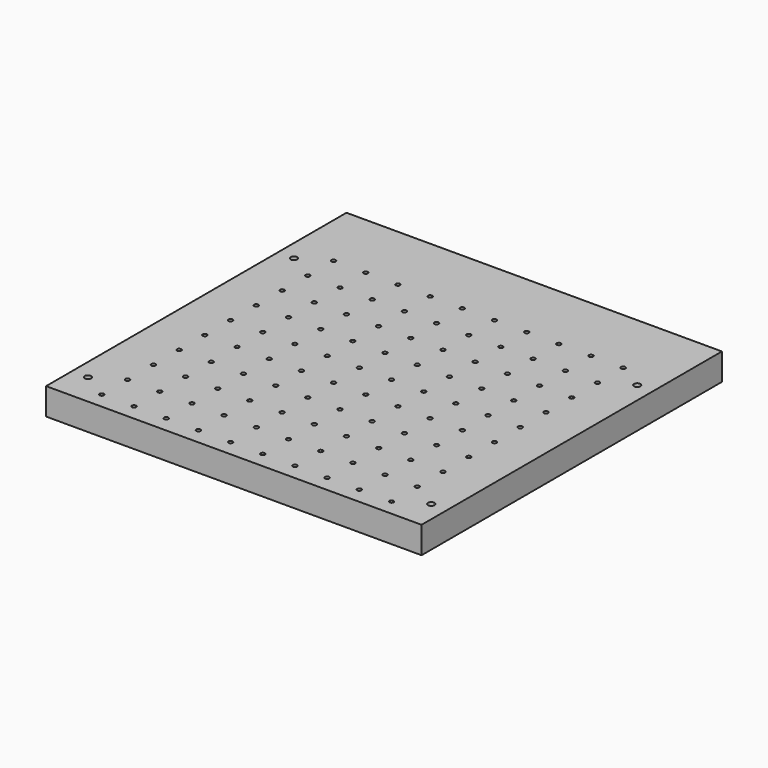
from build123d import *

# Parameters (mm, degrees)
F0_W     = 350
F0_H     = 300
F0_H_2   = 50
F1_DEPTH = 25
F2_R     = 2
F3_DEPTH = 20
F4_R     = 3
F5_DEPTH = 25.001


with BuildPart() as f1:
    # F0 (on Top) → F1 (new body)
    with BuildSketch(Plane.XY):
        with Locations((175, 150)):
            Rectangle(F0_W, F0_H)
        with Locations((175, 325)):
            Rectangle(F0_W, F0_H_2)
    extrude(amount=F1_DEPTH)

    # F2 (on face) → F3 (cut)
    with BuildSketch(Plane.XY.offset(25)):
        with Locations((40, 15)):
            Circle(F2_R)
        with Locations((40, 45)):
            Circle(F2_R)
        with Locations((40, 75)):
            Circle(F2_R)
        with Locations((40, 105)):
            Circle(F2_R)
        with Locations((40, 135)):
            Circle(F2_R)
        with Locations((40, 165)):
            Circle(F2_R)
        with Locations((40, 195)):
            Circle(F2_R)
        with Locations((40, 225)):
            Circle(F2_R)
        with Locations((40, 255)):
            Circle(F2_R)
        with Locations((40, 285)):
            Circle(F2_R)
        with Locations((70, 15)):
            Circle(F2_R)
        with Locations((70, 45)):
            Circle(F2_R)
        with Locations((70, 75)):
            Circle(F2_R)
        with Locations((70, 105)):
            Circle(F2_R)
        with Locations((70, 135)):
            Circle(F2_R)
        with Locations((70, 165)):
            Circle(F2_R)
        with Locations((70, 195)):
            Circle(F2_R)
        with Locations((70, 225)):
            Circle(F2_R)
        with Locations((70, 255)):
            Circle(F2_R)
        with Locations((70, 285)):
            Circle(F2_R)
        with Locations((100, 15)):
            Circle(F2_R)
        with Locations((100, 45)):
            Circle(F2_R)
        with Locations((100, 75)):
            Circle(F2_R)
        with Locations((100, 105)):
            Circle(F2_R)
        with Locations((100, 135)):
            Circle(F2_R)
        with Locations((100, 165)):
            Circle(F2_R)
        with Locations((100, 195)):
            Circle(F2_R)
        with Locations((100, 225)):
            Circle(F2_R)
        with Locations((100, 255)):
            Circle(F2_R)
        with Locations((100, 285)):
            Circle(F2_R)
        with Locations((130, 15)):
            Circle(F2_R)
        with Locations((130, 45)):
            Circle(F2_R)
        with Locations((130, 75)):
            Circle(F2_R)
        with Locations((130, 105)):
            Circle(F2_R)
        with Locations((130, 135)):
            Circle(F2_R)
        with Locations((130, 165)):
            Circle(F2_R)
        with Locations((130, 195)):
            Circle(F2_R)
        with Locations((130, 225)):
            Circle(F2_R)
        with Locations((130, 255)):
            Circle(F2_R)
        with Locations((130, 285)):
            Circle(F2_R)
        with Locations((160, 15)):
            Circle(F2_R)
        with Locations((160, 45)):
            Circle(F2_R)
        with Locations((160, 75)):
            Circle(F2_R)
        with Locations((160, 105)):
            Circle(F2_R)
        with Locations((160, 135)):
            Circle(F2_R)
        with Locations((160, 165)):
            Circle(F2_R)
        with Locations((160, 195)):
            Circle(F2_R)
        with Locations((160, 225)):
            Circle(F2_R)
        with Locations((160, 255)):
            Circle(F2_R)
        with Locations((160, 285)):
            Circle(F2_R)
        with Locations((190, 15)):
            Circle(F2_R)
        with Locations((190, 45)):
            Circle(F2_R)
        with Locations((190, 75)):
            Circle(F2_R)
        with Locations((190, 105)):
            Circle(F2_R)
        with Locations((190, 135)):
            Circle(F2_R)
        with Locations((190, 165)):
            Circle(F2_R)
        with Locations((190, 195)):
            Circle(F2_R)
        with Locations((190, 225)):
            Circle(F2_R)
        with Locations((190, 255)):
            Circle(F2_R)
        with Locations((190, 285)):
            Circle(F2_R)
        with Locations((220, 15)):
            Circle(F2_R)
        with Locations((220, 45)):
            Circle(F2_R)
        with Locations((220, 75)):
            Circle(F2_R)
        with Locations((220, 105)):
            Circle(F2_R)
        with Locations((220, 135)):
            Circle(F2_R)
        with Locations((220, 165)):
            Circle(F2_R)
        with Locations((220, 195)):
            Circle(F2_R)
        with Locations((220, 225)):
            Circle(F2_R)
        with Locations((220, 255)):
            Circle(F2_R)
        with Locations((220, 285)):
            Circle(F2_R)
        with Locations((250, 15)):
            Circle(F2_R)
        with Locations((250, 45)):
            Circle(F2_R)
        with Locations((250, 75)):
            Circle(F2_R)
        with Locations((250, 105)):
            Circle(F2_R)
        with Locations((250, 135)):
            Circle(F2_R)
        with Locations((250, 165)):
            Circle(F2_R)
        with Locations((250, 195)):
            Circle(F2_R)
        with Locations((250, 225)):
            Circle(F2_R)
        with Locations((250, 255)):
            Circle(F2_R)
        with Locations((250, 285)):
            Circle(F2_R)
        with Locations((280, 15)):
            Circle(F2_R)
        with Locations((280, 45)):
            Circle(F2_R)
        with Locations((280, 75)):
            Circle(F2_R)
        with Locations((280, 105)):
            Circle(F2_R)
        with Locations((280, 135)):
            Circle(F2_R)
        with Locations((280, 165)):
            Circle(F2_R)
        with Locations((280, 195)):
            Circle(F2_R)
        with Locations((280, 225)):
            Circle(F2_R)
        with Locations((280, 255)):
            Circle(F2_R)
        with Locations((280, 285)):
            Circle(F2_R)
        with Locations((310, 15)):
            Circle(F2_R)
        with Locations((310, 45)):
            Circle(F2_R)
        with Locations((310, 75)):
            Circle(F2_R)
        with Locations((310, 105)):
            Circle(F2_R)
        with Locations((310, 135)):
            Circle(F2_R)
        with Locations((310, 165)):
            Circle(F2_R)
        with Locations((310, 195)):
            Circle(F2_R)
        with Locations((310, 225)):
            Circle(F2_R)
        with Locations((310, 255)):
            Circle(F2_R)
        with Locations((310, 285)):
            Circle(F2_R)
    extrude(amount=-F3_DEPTH, mode=Mode.SUBTRACT)

    # F4 (on face) → F5 (cut, through all)
    with BuildSketch(Plane.XY.offset(25)):
        with Locations((15, 270)):
            Circle(F4_R)
        with Locations((335, 270)):
            Circle(F4_R)
        with Locations((335, 30)):
            Circle(F4_R)
        with Locations((15, 30)):
            Circle(F4_R)
    extrude(amount=-F5_DEPTH, mode=Mode.SUBTRACT)


solid = f1.part
